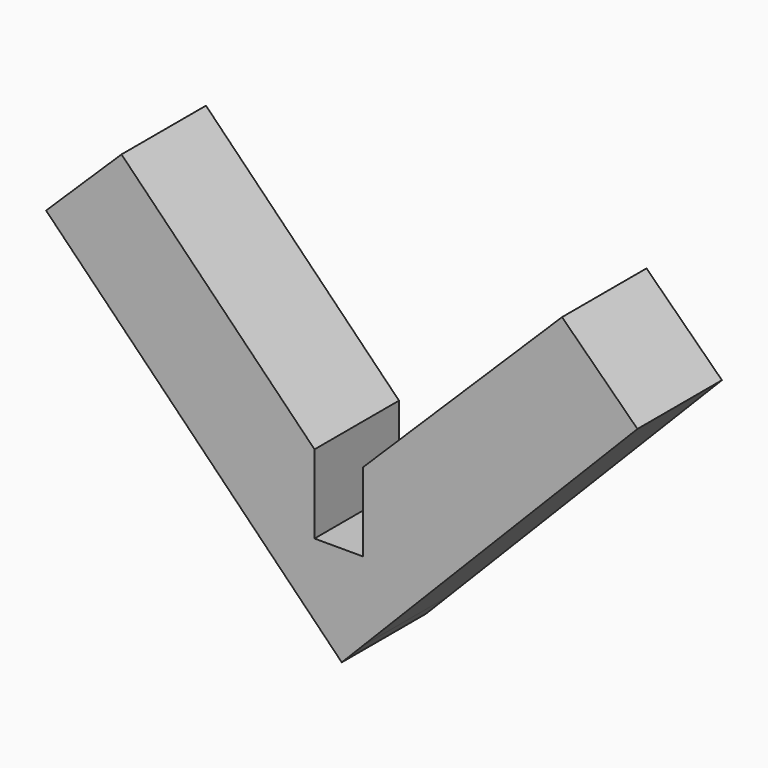
from build123d import *

# Parameters (mm, degrees)
F1_DEPTH = 12.7


with BuildPart() as f1:
    # F0 (on Front) → F1 (new body)
    with BuildSketch(Plane.XZ):
        Polygon((-26.490386, 45.168456), (-35.56, 36.278456), (-3.277726, 3.343949), (-3.277726, 12.044498), (-3.277726, 21.486806), align=None)
        Polygon((-3.277726, 12.044498), (-3.277726, 3.343949), (0, 0), (2.550656, 2.602189), (2.550656, 12.044498), align=None)
        Polygon((2.550656, 12.044498), (2.550656, 2.602189), (35.56, 36.278456), (26.490386, 45.168456), (2.550656, 21.486806), align=None)
    extrude(amount=F1_DEPTH)


solid = f1.part
